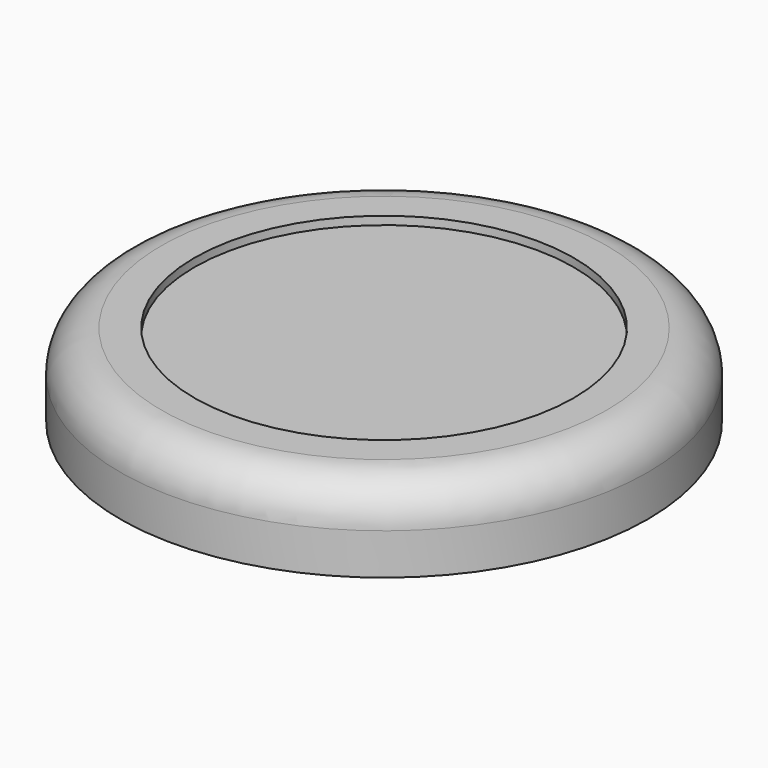
from build123d import *

# Parameters (mm, degrees)
F0_R     = 16
F1_DEPTH = 5
F2_T     = -4.5
F3_R     = 2.5


with BuildPart() as f1:
    # F0 (on Top) → F1 (new body)
    with BuildSketch(Plane.XY):
        with Locations((-13.779012, 0)):
            Circle(F0_R)
    extrude(amount=F1_DEPTH)

    # F2
    f2_openings = [f1.faces().sort_by_distance(p)[0] for p in [
        (-13.779012, 0, 5),
    ]]
    offset(amount=F2_T, openings=f2_openings)

    # F3
    f3_edges = [f1.edges().sort_by_distance(p)[0] for p in [
        (-29.779012, 0, 5),
    ]]
    fillet(f3_edges, radius=F3_R)


solid = f1.part
